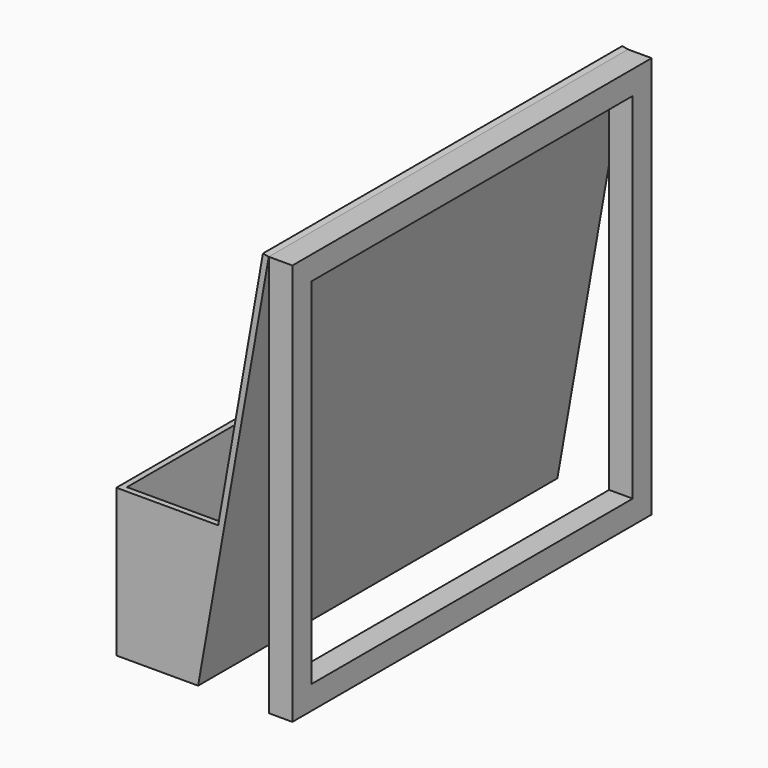
from build123d import *

# Parameters (mm, degrees)
F1_DEPTH  = 482.6
F2_W      = 6.35
F2_H      = 152.4
F3_DEPTH  = 76.2
F4_W      = 6.35
F4_H      = 152.4
F5_DEPTH  = 76.2
F7_DEPTH  = 6.35
F9_DEPTH  = 6.35
F11_DEPTH = 76.2
F13_DEPTH = 76.2
F14_W     = 25.4
F14_H     = 431.8
F15_DEPTH = 25.4
F16_W     = 25.4
F16_H     = 25.4
F17_DEPTH = 431.8
F18_W     = 25.4
F18_H     = 431.8
F19_DEPTH = 25.4


with BuildPart() as f1:
    # F0 (on Front) → F1 (new body)
    with BuildSketch(Plane.XZ):
        Polygon((0, -6.35), (0, 0), (0, 152.4), (-6.35, 152.4), (-6.35, 0), (-6.35, -6.35), align=None)
        Polygon((76.2, 0), (0, 0), (0, -6.35), (81.528283, -6.35), (157.434812, 424.137322), (151.181283, 425.239988), align=None)
    extrude(amount=F1_DEPTH)

    # F2 (on face) → F3 (join)
    with BuildSketch(Plane.YZ):
        with Locations((-3.175, 76.2)):
            Rectangle(F2_W, F2_H)
    extrude(amount=F3_DEPTH)

    # F4 (on face) → F5 (join)
    with BuildSketch(Plane.YZ):
        with Locations((-479.425, 76.2)):
            Rectangle(F4_W, F4_H)
    extrude(amount=F5_DEPTH)

    # F6 (on face) → F7 (join)
    with BuildSketch(Plane(origin=(0, 0, 0), x_dir=(-1, 0, 0), z_dir=(0, 1, 0))):
        Polygon((-76.2, 0), (-76.2, 152.4), (-103.072232, 152.4), align=None)
    extrude(amount=-F7_DEPTH)

    # F8 (on face) → F9 (join)
    with BuildSketch(Plane.XZ.offset(482.6)):
        Polygon((103.072232, 152.4), (76.2, 152.4), (76.2, 0), align=None)
    extrude(amount=-F9_DEPTH)

    # F10 (on face) → F11 (join)
    with BuildSketch(Plane.YZ):
        Polygon((-6.35, 152.4), (-88.9, 0), (-6.35, 0), align=None)
    extrude(amount=F11_DEPTH)

    # F12 (on face) → F13 (join)
    with BuildSketch(Plane.YZ):
        Polygon((-476.25, 152.4), (-476.25, 0), (-393.7, 0), align=None)
    extrude(amount=F13_DEPTH)



with BuildPart() as f15:
    # F14 (on face) → F15 (new body)
    with BuildSketch(Plane(origin=(0, 0, 0), x_dir=(-1, 0, 0), z_dir=(0, 1, 0))):
        with Locations((-170.134812, 208.237322)):
            Rectangle(F14_W, F14_H)
    extrude(amount=-F15_DEPTH)


with BuildPart() as f1_1:
    add(f1.part)

    add(f15.part)  # F17 merges F15
    # F16 (on face) → F17 (join)
    with BuildSketch(Plane.XZ.offset(25.4)):
        with Locations((170.134812, 5.037322)):
            Rectangle(F16_W, F16_H)
        with Locations((170.134812, 411.437322)):
            Rectangle(F16_W, F16_H)
    extrude(amount=F17_DEPTH)

    # F18 (on face) → F19 (join)
    with BuildSketch(Plane.XZ.offset(457.2)):
        with Locations((170.134812, 208.237322)):
            Rectangle(F18_W, F18_H)
    extrude(amount=F19_DEPTH)


solid = f1_1.part
